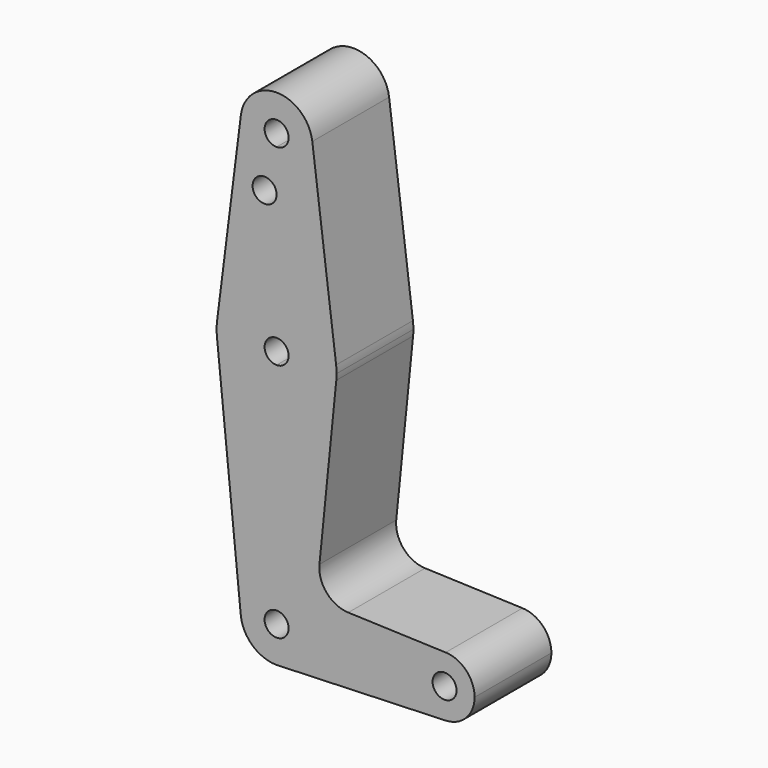
from build123d import *

# Parameters (mm, degrees)
F0_R     = 3.175
F1_DEPTH = 25.4


with BuildPart() as f1:
    # F0 (on Front) → F1 (new body)
    with BuildSketch(Plane.XZ):
        with BuildLine():
            Line((0, 100.0252), (0, 104.775))
            ThreePointArc((0, 104.775), (-7.14375, 107.9998046905), (-9.4502929642, 115.490625))
            Line((-9.4502929642, 115.490625), (-15.7504882737, 65.484375))
            ThreePointArc((-15.7504882737, 65.484375), (-10.5003255158, 75.40625), (0, 79.375))
            Line((0, 79.375), (0, 100.0252))
        make_face()
        with Locations((-3.175, 100.0252)):
            Circle(F0_R, mode=Mode.SUBTRACT)
        with BuildLine():
            ThreePointArc((9.4502929642, 115.490625), (9.5063048942, 114.896483242), (9.525, 114.3))
            ThreePointArc((9.525, 114.3), (6.7351920908, 107.5648079092), (0, 104.775))
            Line((0, 104.775), (0, 100.0252))
            Line((0, 100.0252), (0, 79.375))
            ThreePointArc((0, 79.375), (10.5003255158, 75.40625), (15.7504882737, 65.484375))
            Line((15.7504882737, 65.484375), (9.4502929642, 115.490625))
        make_face()
        with BuildLine():
            ThreePointArc((15.875, 63.5), (15.8438414904, 64.4941387366), (15.7504882737, 65.484375))
            ThreePointArc((15.7504882737, 65.484375), (10.5003255158, 75.40625), (0, 79.375))
            Line((0, 79.375), (0, 66.675))
            ThreePointArc((0, 66.675), (2.2450640303, 65.7450640303), (3.175, 63.5))
            ThreePointArc((3.175, 63.5), (2.2450640303, 61.2549359697), (0, 60.325))
            Line((0, 60.325), (0, 47.625))
            ThreePointArc((0, 47.625), (10.6492737428, 51.7267849017), (15.7954255641, 61.9125))
            ThreePointArc((15.7954255641, 61.9125), (15.8550939106, 62.7052534459), (15.875, 63.5))
        make_face()
        with BuildLine():
            ThreePointArc((0, 104.775), (6.7351920908, 107.5648079092), (9.525, 114.3))
            ThreePointArc((9.525, 114.3), (9.5063048942, 114.896483242), (9.4502929642, 115.490625))
            ThreePointArc((9.4502929642, 115.490625), (0, 123.825), (-9.4502929642, 115.490625))
            ThreePointArc((-9.4502929642, 115.490625), (-7.14375, 107.9998046905), (0, 104.775))
        make_face()
        with BuildLine():
            ThreePointArc((3.175, 114.3), (2.2450640303, 112.0549359697), (0, 111.125))
            ThreePointArc((0, 111.125), (-2.2450640303, 116.5450640303), (3.175, 114.3))
        make_face(mode=Mode.SUBTRACT)
        with BuildLine():
            ThreePointArc((0, 79.375), (-10.5003255158, 75.40625), (-15.7504882737, 65.484375))
            ThreePointArc((-15.7504882737, 65.484375), (-15.8737438155, 63.6997054867), (-15.7954255641, 61.9125))
            ThreePointArc((-15.7954255641, 61.9125), (-10.6492737428, 51.7267849017), (0, 47.625))
            Line((0, 47.625), (0, 60.325))
            ThreePointArc((0, 60.325), (-3.175, 63.5), (0, 66.675))
            Line((0, 66.675), (0, 79.375))
        make_face()
        with BuildLine():
            ThreePointArc((0, 47.625), (-10.6492737428, 51.7267849017), (-15.7954255641, 61.9125))
            Line((-15.7954255641, 61.9125), (-9.4772553384, -0.9525))
            ThreePointArc((-9.4772553384, -0.9525), (-7.063929059, 6.3895642457), (0, 9.525))
            Line((0, 9.525), (0, 47.625))
        make_face()
        with BuildLine():
            Line((11.3411865923, 17.5933818124), (15.7954255641, 61.9125))
            ThreePointArc((15.7954255641, 61.9125), (10.6492737428, 51.7267849017), (0, 47.625))
            Line((0, 47.625), (0, 9.525))
            ThreePointArc((0, 9.525), (0.1701164197, 9.5234807399), (0.3401785714, 9.5189234444))
            Line((0.3401785714, 9.5189234444), (10.4932062399, 9.1560838367))
            Line((10.4932062399, 9.1560838367), (11.3411865923, 17.5933818124))
        make_face()
        with BuildLine():
            Line((18.9676000005, 8.8532337108), (10.4932062399, 9.1560838367))
            Line((10.4932062399, 9.1560838367), (9.5729851903, 0))
            Line((9.5729851903, 0), (36.5125, 0))
            ThreePointArc((36.5125, 0), (38.9384772185, 5.7120069047), (44.7334821429, 7.9324362036))
            Line((44.7334821429, 7.9324362036), (18.9676000005, 8.8532337108))
        make_face()
        with BuildLine():
            ThreePointArc((9.4772553384, -0.9525), (6.6368437169, -6.8321248875), (0.6773435479, -9.500885786))
            Line((0.6773435479, -9.500885786), (44.7324052746, -7.9324746146))
            ThreePointArc((44.7324052746, -7.9324746146), (38.9380895153, -5.7116327839), (36.5125, 0))
            Line((36.5125, 0), (9.5729851903, 0))
            Line((9.5729851903, 0), (9.4772553384, -0.9525))
        make_face()
        with BuildLine():
            Line((9.5729851903, 0), (10.4932062399, 9.1560838367))
            Line((10.4932062399, 9.1560838367), (0.3401785714, 9.5189234444))
            ThreePointArc((0.3401785714, 9.5189234444), (6.8544082857, 6.6138273378), (9.525, 0))
            Line((9.525, 0), (9.5729851903, 0))
        make_face()
        with BuildLine():
            ThreePointArc((0.3401785714, 9.5189234444), (0.1701164197, 9.5234807399), (0, 9.525))
            Line((0, 9.525), (0, 3.175))
            ThreePointArc((0, 3.175), (2.2450640303, 2.2450640303), (3.175, 0))
            Line((3.175, 0), (9.525, 0))
            ThreePointArc((9.525, 0), (6.8544082857, 6.6138273378), (0.3401785714, 9.5189234444))
        make_face()
        with BuildLine():
            ThreePointArc((0, 9.525), (-7.063929059, 6.3895642457), (-9.4772553384, -0.9525))
            ThreePointArc((-9.4772553384, -0.9525), (-6.3895642457, -7.063929059), (0, -9.525))
            Line((0, -9.525), (0.6773435479, -9.500885786))
            ThreePointArc((0.6773435479, -9.500885786), (6.6368437169, -6.8321248875), (9.4772553384, -0.9525))
            ThreePointArc((9.4772553384, -0.9525), (9.5130563464, -0.4768479324), (9.525, 0))
            Line((9.525, 0), (3.175, 0))
            ThreePointArc((3.175, 0), (-2.2450640303, -2.2450640303), (0, 3.175))
            Line((0, 3.175), (0, 9.525))
        make_face()
        with BuildLine():
            ThreePointArc((52.3875, 0), (50.1620069047, 5.5115227815), (44.7334821429, 7.9324362036))
            ThreePointArc((44.7334821429, 7.9324362036), (38.9384772185, 5.7120069047), (36.5125, 0))
            ThreePointArc((36.5125, 0), (38.9380895153, -5.7116327839), (44.7324052746, -7.9324746146))
            ThreePointArc((44.7324052746, -7.9324746146), (50.1616327839, -5.5119104847), (52.3875, 0))
        make_face()
        with BuildLine():
            ThreePointArc((47.625, 0), (44.45, -3.175), (41.275, 0))
            ThreePointArc((41.275, 0), (44.45, 3.175), (47.625, 0))
        make_face(mode=Mode.SUBTRACT)
        with BuildLine():
            ThreePointArc((18.9676000005, 8.8532337108), (13.2611998974, 11.5713591498), (11.3411865923, 17.5933818124))
            Line((11.3411865923, 17.5933818124), (10.4932062399, 9.1560838367))
            Line((10.4932062399, 9.1560838367), (18.9676000005, 8.8532337108))
        make_face()
    extrude(amount=F1_DEPTH)


solid = f1.part
